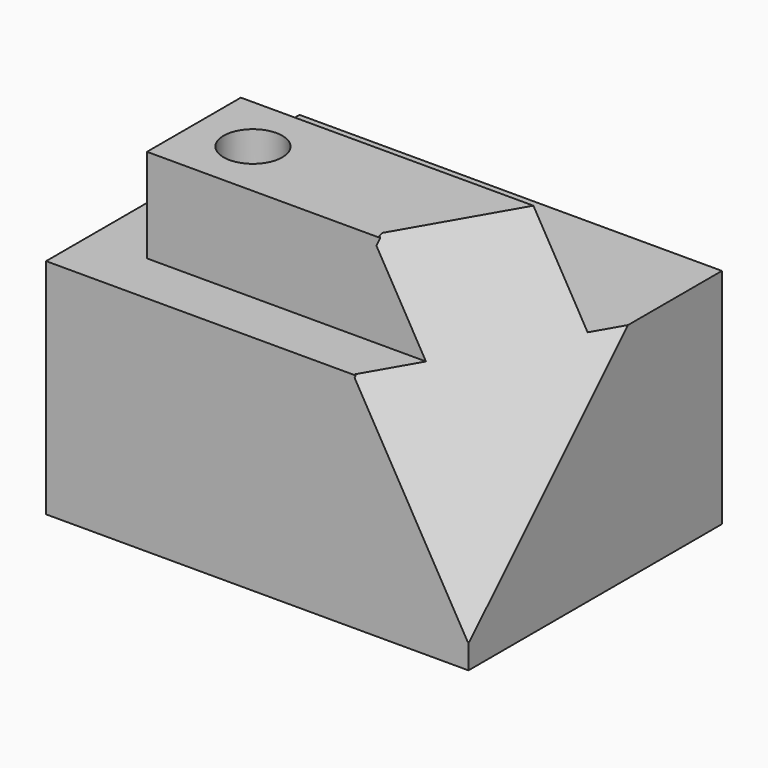
from build123d import *

# Parameters (mm, degrees)
F0_W      = 114.3
F0_H      = 60.325
F1_DEPTH  = 42.8625
F2_W      = 98.425
F2_H      = 31.75
F3_DEPTH  = 25.4
F4_R      = 7.9375
F5_DEPTH  = 25.4
F10_DEPTH = 127


with BuildPart() as f1:
    # F0 (on Front) → F1 (new body, symmetric)
    with BuildSketch(Plane.XZ):
        with Locations((57.15, 30.1625)):
            Rectangle(F0_W, F0_H)
    extrude(amount=F1_DEPTH, both=True)

    # F2 (on face) → F3 (join)
    with BuildSketch(Plane.XY.offset(60.325)):
        with Locations((65.0875, -12.7)):
            Rectangle(F2_W, F2_H)
    extrude(amount=F3_DEPTH)

    # F4 (on face) → F5 (cut)
    with BuildSketch(Plane.XY.offset(60.325)):
        with Locations((31.8531343792, -12.7)):
            Circle(F4_R)
    extrude(amount=F5_DEPTH, mode=Mode.SUBTRACT)

    # F9 (on 3pt) → F10 (cut)
    with BuildSketch(Plane(origin=(85.5876450588, -49.4525301974, 49.4525301974), x_dir=(0.3874037681, 0.8943227315, 0.2238418469), z_dir=(0.7743554069, -0.4474224535, 0.4474224535))):
        Polygon((-14.9042876437, -25.4722796381), (7.5109787285, -51.4674633741), (114.2435371876, -48.7483553588), (131.361335516, 53.0414171517), (24.5024245232, 35.0616015494), (7.6925121248, 10.4205505922), align=None)
    extrude(amount=F10_DEPTH, mode=Mode.SUBTRACT)


solid = f1.part
